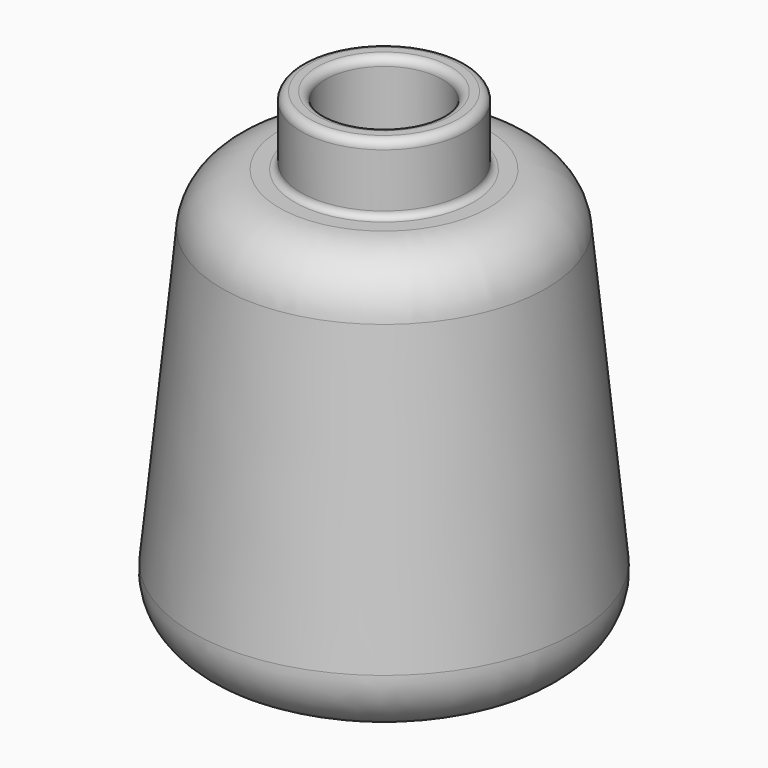
from build123d import *

# Parameters (mm, degrees)
F2_R = 9
F3_R = 1.3
F4_R = 1


with BuildPart() as f1:
    # F0 (on Front) → F1 (revolve)
    with BuildSketch(Plane.XZ):
        with BuildLine():
            Line((0, 17.574922), (0, 4))
            Line((0, 4), (16, 4))
            Line((16, 4), (16, 1.812754))
            Line((16, 1.812754), (30.71117, 1.812754))
            Line((30.71117, 1.812754), (24.440752, 65.549597))
            Line((24.440752, 65.549597), (12.908909, 65.549597))
            Line((12.908909, 65.549597), (12.908909, 76.223224))
            Line((12.908909, 76.223224), (9.074644, 76.223224))
            Line((9.074644, 76.223224), (9.074644, 61.087381))
            Line((9.074644, 61.087381), (19.388833, 61.087381))
            Line((19.388833, 61.087381), (23.354203, 20.78063))
            ThreePointArc((23.354203, 20.78063), (22.611742, 18.533796), (20.448395, 17.574922))
            Line((20.448395, 17.574922), (0, 17.574922))
        make_face()
    revolve(axis=Axis((0, 0, 44.488502), (0, 0, -1)))

    # F2
    f2_edges = [f1.edges().sort_by_distance(p)[0] for p in [
        (-30.71117, 0, 1.812754),
        (-24.440752, 0, 65.549597),
    ]]
    fillet(f2_edges, radius=F2_R)

    # F3
    f3_edges = [f1.edges().sort_by_distance(p)[0] for p in [
        (-12.908909, 0, 76.223224),
        (-9.074644, 0, 76.223224),
    ]]
    fillet(f3_edges, radius=F3_R)

    # F4
    f4_edges = [f1.edges().sort_by_distance(p)[0] for p in [
        (-12.908909, 0, 65.549597),
    ]]
    fillet(f4_edges, radius=F4_R)


solid = f1.part
